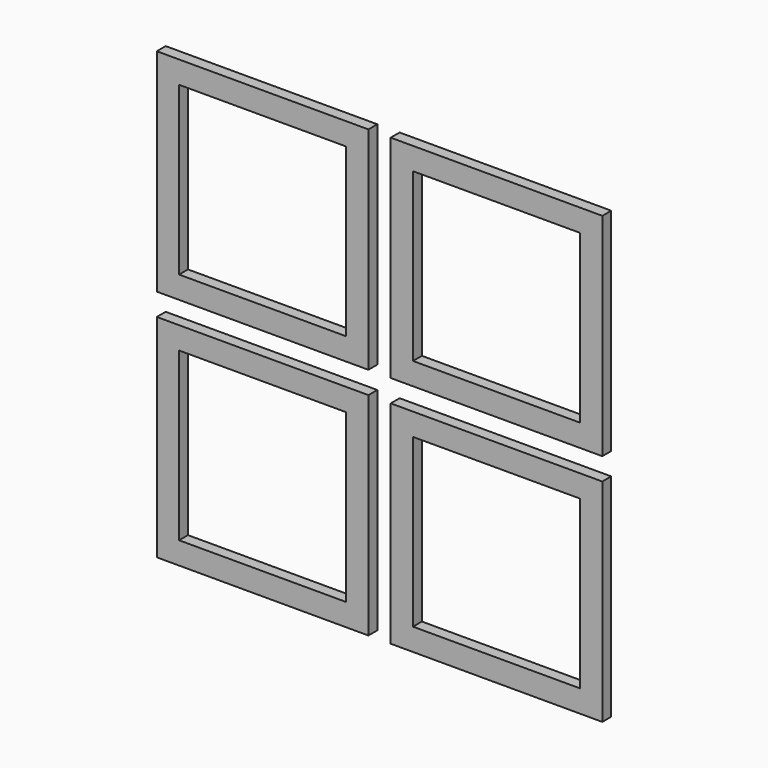
from build123d import *

# Parameters (mm, degrees)
F0_W     = 950
F0_H     = 950
F0_W_2   = 750
F0_H_2   = 750
F1_DEPTH = 50


with BuildPart() as f1:
    # F0 (on Front) → F1 (new body)
    with BuildSketch(Plane.XZ):
        with Locations((-525, 525)):
            Rectangle(F0_W, F0_H)
        with Locations((-525, 525)):
            Rectangle(F0_W_2, F0_H_2, mode=Mode.SUBTRACT)
        with Locations((-525, -525)):
            Rectangle(F0_W, F0_H)
        with Locations((-525, -525)):
            Rectangle(F0_W_2, F0_H_2, mode=Mode.SUBTRACT)
        with Locations((525, 525)):
            Rectangle(F0_W, F0_H)
        with Locations((525, 525)):
            Rectangle(F0_W_2, F0_H_2, mode=Mode.SUBTRACT)
        Polygon((1000, -50), (50, -50), (50, -900), (50, -1000), (150, -1000), (1000, -1000), align=None)
        with Locations((525, -525)):
            Rectangle(F0_W_2, F0_H_2, mode=Mode.SUBTRACT)
    extrude(amount=F1_DEPTH)


solid = f1.part
